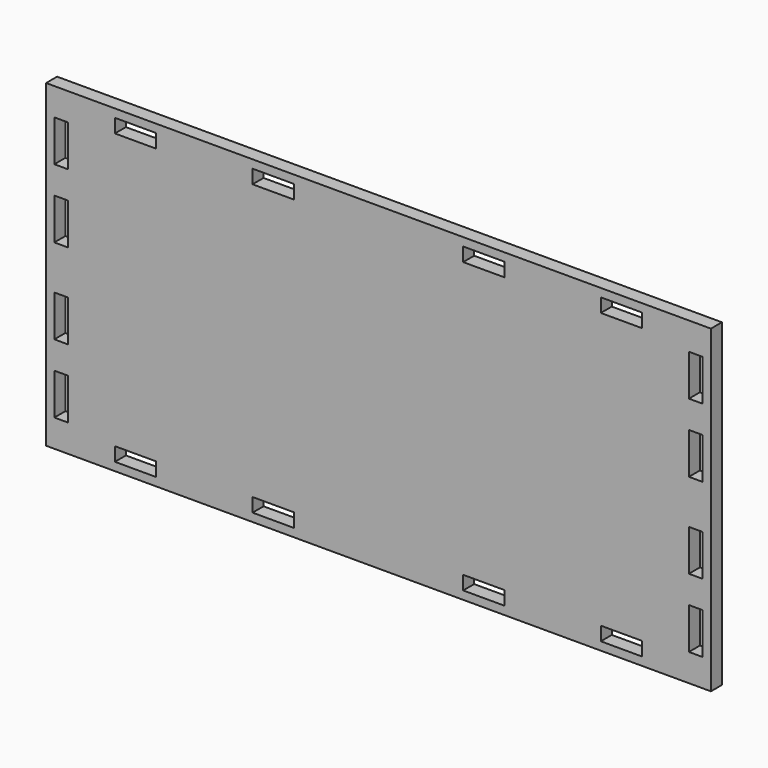
from build123d import *

# Parameters (mm, degrees)
F0_W     = 241.5
F0_H     = 116
F0_W_2   = 15
F0_H_2   = 5
F0_W_3   = 5
F0_H_3   = 15
F1_DEPTH = 5


with BuildPart() as f1:
    # F0 (on Front) → F1 (new body)
    with BuildSketch(Plane.XZ):
        Rectangle(F0_W, F0_H)
        with Locations((-88.25, -52.5)):
            Rectangle(F0_W_2, F0_H_2, mode=Mode.SUBTRACT)
        with Locations((-115.25, -40.5)):
            Rectangle(F0_W_3, F0_H_3, mode=Mode.SUBTRACT)
        with Locations((-38.25, -52.5)):
            Rectangle(F0_W_2, F0_H_2, mode=Mode.SUBTRACT)
        with Locations((-115.25, -15.5)):
            Rectangle(F0_W_3, F0_H_3, mode=Mode.SUBTRACT)
        with Locations((38.25, -52.5)):
            Rectangle(F0_W_2, F0_H_2, mode=Mode.SUBTRACT)
        with Locations((88.25, -52.5)):
            Rectangle(F0_W_2, F0_H_2, mode=Mode.SUBTRACT)
        with Locations((115.25, -40.5)):
            Rectangle(F0_W_3, F0_H_3, mode=Mode.SUBTRACT)
        with Locations((115.25, -15.5)):
            Rectangle(F0_W_3, F0_H_3, mode=Mode.SUBTRACT)
        with Locations((-115.25, 15.5)):
            Rectangle(F0_W_3, F0_H_3, mode=Mode.SUBTRACT)
        with Locations((-115.25, 40.5)):
            Rectangle(F0_W_3, F0_H_3, mode=Mode.SUBTRACT)
        with Locations((-88.25, 52.5)):
            Rectangle(F0_W_2, F0_H_2, mode=Mode.SUBTRACT)
        with Locations((-38.25, 52.5)):
            Rectangle(F0_W_2, F0_H_2, mode=Mode.SUBTRACT)
        with Locations((115.25, 15.5)):
            Rectangle(F0_W_3, F0_H_3, mode=Mode.SUBTRACT)
        with Locations((38.25, 52.5)):
            Rectangle(F0_W_2, F0_H_2, mode=Mode.SUBTRACT)
        with Locations((115.25, 40.5)):
            Rectangle(F0_W_3, F0_H_3, mode=Mode.SUBTRACT)
        with Locations((88.25, 52.5)):
            Rectangle(F0_W_2, F0_H_2, mode=Mode.SUBTRACT)
    extrude(amount=F1_DEPTH)


solid = f1.part
